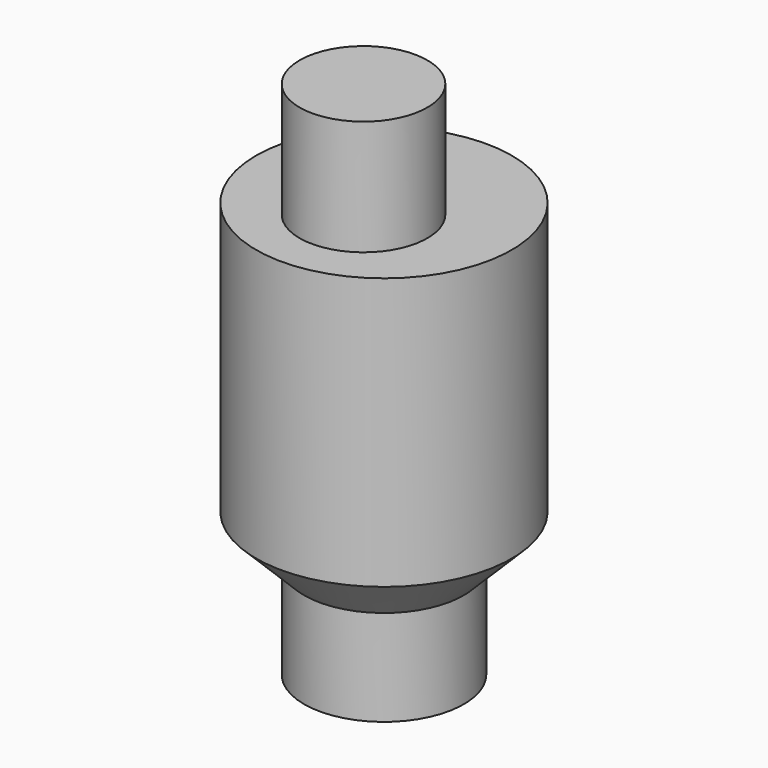
from build123d import *

# Parameters (mm, degrees)
CYLINDER_R             = 2
CYLINDER_DEPTH         = 5
CHAMFER_SIZE           = 0.75
CYLINDER002_R          = 1
CYLINDER002_DEPTH      = 1.8
CYLINDER001_R          = 1.25
CYLINDER001_DEPTH      = 1.5
FUSION_PLACEMENT_ANGLE = 180


with BuildPart() as chamfer001:
    # Cylinder → Cylinder (new body)
    with BuildSketch(Plane.XY):
        Circle(CYLINDER_R)
    extrude(amount=CYLINDER_DEPTH)

    # Chamfer
    chamfer_edges = [chamfer001.edges().sort_by_distance(p)[0] for p in [
        (-2, 0, 5),
    ]]
    chamfer(chamfer_edges, length=CHAMFER_SIZE)


with BuildPart() as chamfer001_1:
    # Clone002 placement: moved
    add(chamfer001.part.moved(Location((0, -6, 0))))


with BuildPart() as cylinder004:
    # Cylinder002 → Cylinder002 (new body)
    with BuildSketch(Plane.XY.offset(-1.8)):
        Circle(CYLINDER002_R)
    extrude(amount=CYLINDER002_DEPTH)


with BuildPart() as cylinder004_1:
    # Clone001 placement: moved
    add(cylinder004.part.moved(Location((0, -6.4, 0))))


with BuildPart() as obj1:
    # Cylinder001 → Cylinder001 (new body)
    with BuildSketch(Plane.XY.offset(5)):
        Circle(CYLINDER001_R)
    extrude(amount=CYLINDER001_DEPTH)


with BuildPart() as obj1_1:
    # Clone placement: moved
    add(obj1.part.moved(Location((0, -6, 0))))

    # Fusion: union Chamfer001, Cylinder004
    add(chamfer001_1.part)
    add(cylinder004_1.part)


with BuildPart() as obj1_2:
    # Fusion placement: moved
    add(obj1_1.part.moved(Location((-45, 65, 6.5))).rotate(Axis((-45, 65, 6.5), (0, 1, 0)), FUSION_PLACEMENT_ANGLE))


solid = obj1_2.part
